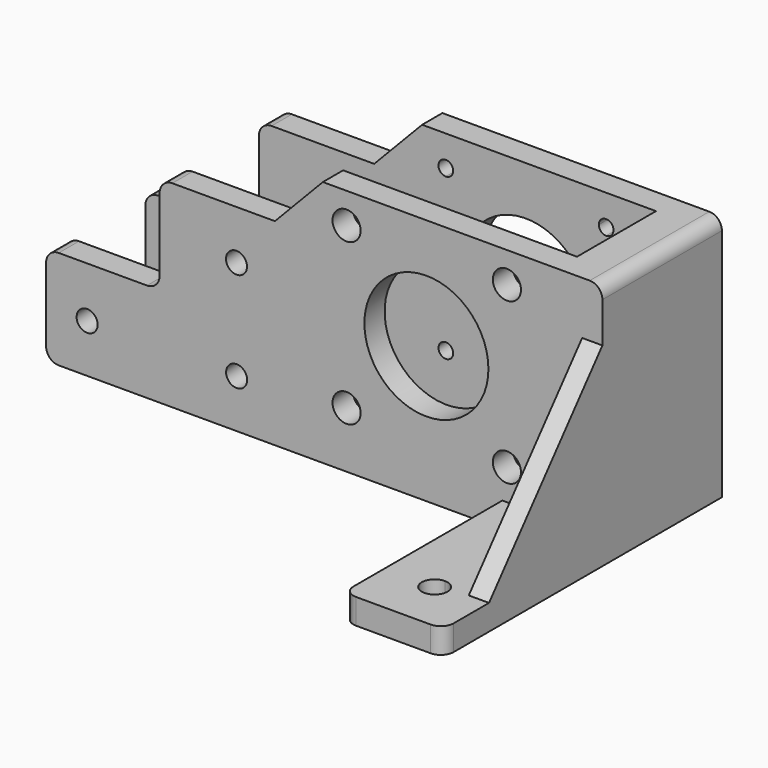
from build123d import *

# Parameters (mm, degrees)
F0_R      = 2.1098755339
F0_R_2    = 12.4421900961
F1_DEPTH  = 5.08
F2_W      = 9.1656111181
F2_H      = 49.6172681451
F3_DEPTH  = 9.906
F6_W      = 20.066
F6_H      = 5.08
F7_DEPTH  = 39.878
F8_R      = 2.8214274278
F9_DEPTH  = 20.066
F10_R     = 2.54
F12_DEPTH = 4.064
F14_DEPTH = 25.4
F15_R     = 2.54


with BuildPart() as f1:
    # F0 (on Front) → F1 (new body)
    with BuildSketch(Plane.XZ):
        Polygon((-13.3598004468, 10.1419929415), (-36.4883057773, 10.1419929415), (-36.4883057773, -9.5737483352), (-59.2704489827, -9.5737483352), (-59.2704489827, -29.4367726892), (52.3412488401, -29.4367726892), (52.3412488401, 20.1804954559), (-3.7403083406, 20.1804954559), align=None)
        with Locations((-51.0335490108, -19.7275634855)):
            Circle(F0_R, mode=Mode.SUBTRACT)
        with Locations((-21.0455833003, -19.7240766138)):
            Circle(F0_R, mode=Mode.SUBTRACT)
        with Locations((-21.0662493482, 0.2928022295)):
            Circle(F0_R, mode=Mode.SUBTRACT)
        with BuildLine():
            ThreePointArc((1.0160000529, 12.5799188824), (-0.0284943115, 15.1015513428), (2.4931381489, 14.0570569783))
            Line((2.4931381489, 14.0570569783), (31.7042982639, 14.0570569783))
            ThreePointArc((31.7042982639, 14.0570569783), (33.1814363599, 15.5341950743), (34.6585744559, 14.0570569783))
            ThreePointArc((34.6585744559, 14.0570569783), (34.2259307243, 13.0125626139), (33.1814363599, 12.5799188824))
            Line((33.1814363599, 12.5799188824), (33.1814363599, -16.6852875115))
            ThreePointArc((33.1814363599, -16.6852875115), (34.2259307243, -17.117931243), (34.6585744559, -18.1624256074))
            ThreePointArc((34.6585744559, -18.1624256074), (33.1814363599, -19.6395637034), (31.7042982639, -18.1624256074))
            Line((31.7042982639, -18.1624256074), (2.4931381489, -18.1624256074))
            ThreePointArc((2.4931381489, -18.1624256074), (-0.0284943115, -19.2069199719), (1.0160000529, -16.6852875115))
            Line((1.0160000529, -16.6852875115), (1.0160000529, 12.5799188824))
        make_face(mode=Mode.SUBTRACT)
        with BuildLine():
            Line((31.7042982639, 14.0570569783), (2.4931381489, 14.0570569783))
            ThreePointArc((2.4931381489, 14.0570569783), (2.0604944173, 13.0125626139), (1.0160000529, 12.5799188824))
            Line((1.0160000529, 12.5799188824), (1.0160000529, -16.6852875115))
            ThreePointArc((1.0160000529, -16.6852875115), (2.0604944173, -17.117931243), (2.4931381489, -18.1624256074))
            Line((2.4931381489, -18.1624256074), (31.7042982639, -18.1624256074))
            ThreePointArc((31.7042982639, -18.1624256074), (32.1369419955, -17.117931243), (33.1814363599, -16.6852875115))
            Line((33.1814363599, -16.6852875115), (33.1814363599, 12.5799188824))
            ThreePointArc((33.1814363599, 12.5799188824), (32.1369419955, 13.0125626139), (31.7042982639, 14.0570569783))
        make_face()
        with Locations((17.0313362032, -2.0420345245)):
            Circle(F0_R_2, mode=Mode.SUBTRACT)
    extrude(amount=F1_DEPTH)

    # F2 (on face) → F3 (join)
    with BuildSketch(Plane.XZ.offset(5.08)):
        with Locations((47.7584432811, -4.6281386167)):
            Rectangle(F2_W, F2_H)
    extrude(amount=F3_DEPTH)

    # F5: F1 across plane


with BuildPart() as f1_1:
    add(f1.part)
    add(f1.part.mirror(Plane(origin=(47.7584432811, -14.986, -4.6281386167), x_dir=(1, 0, 0), z_dir=(0, -1, 0))))

    # F6 (on face) → F7 (join)
    with BuildSketch(Plane.XZ.offset(29.972)):
        with Locations((42.3082488401, -26.8967726892)):
            Rectangle(F6_W, F6_H)
    extrude(amount=F7_DEPTH)

    # F8 (on face) → F9 (cut)
    with BuildSketch(Plane.XZ.offset(29.972)):
        with Locations((1.0160000529, 14.0570569783)):
            Circle(F8_R)
        with Locations((1.0160000529, -18.1624256074)):
            Circle(F8_R)
        with Locations((33.1814363599, -18.1624256074)):
            Circle(F8_R)
        with Locations((33.1814363599, 14.0570569783)):
            Circle(F8_R)
    extrude(amount=-F9_DEPTH, mode=Mode.SUBTRACT)

    # F10
    f10_edges = [f1_1.edges().sort_by_distance(p)[0] for p in [
        (-59.270449, -2.54, -9.573748),
        (-59.270449, -27.432, -9.573748),
        (-36.488306, -2.54, -9.573748),
        (-36.488306, -2.54, 10.141993),
        (-36.488306, -27.432, 10.141993),
        (-36.488306, -27.432, -9.573748),
        (-59.270449, -2.54, -29.436773),
        (-59.270449, -27.432, -29.436773),
        (32.275249, -69.85, -26.896773),
        (52.341249, -69.85, -26.896773),
    ]]
    fillet(f10_edges, radius=F10_R)

    # F11 (on face) → F12 (join)
    with BuildSketch(Plane.YZ.offset(52.3412488401)):
        Polygon((-29.972, -2.0881386167), (-48.641, -24.3567726892), (-29.972, -24.3567726892), align=None)
        Polygon((-58.4051497281, -24.3567726892), (-48.641, -24.3567726892), (-29.972, -2.0881386167), (-29.972, 9.5586703888), align=None)
    extrude(amount=-F12_DEPTH)

    # F13 (on face) → F14 (cut)
    with BuildSketch(Plane.XY.offset(-24.3567726892)):
        with BuildLine():
            ThreePointArc((42.3082488401, -56.9210011754), (39.7297515588, -59.4994984567), (42.3082488401, -62.077995738))
            Line((42.3082488401, -62.077995738), (42.3082488401, -56.9210011754))
        make_face()
        with BuildLine():
            ThreePointArc((42.3082488401, -37.8019768987), (39.7297515588, -40.38047418), (42.3082488401, -42.9589714613))
            Line((42.3082488401, -42.9589714613), (42.3082488401, -37.8019768987))
        make_face()
        with BuildLine():
            Line((42.3082488401, -37.8019768987), (42.3082488401, -42.9589714613))
            ThreePointArc((42.3082488401, -42.9589714613), (44.131521753, -42.2037470929), (44.8867461214, -40.38047418))
            ThreePointArc((44.8867461214, -40.38047418), (44.131521753, -38.5572012671), (42.3082488401, -37.8019768987))
        make_face()
        with BuildLine():
            Line((42.3082488401, -56.9210011754), (42.3082488401, -62.077995738))
            ThreePointArc((42.3082488401, -62.077995738), (44.131521753, -61.3227713696), (44.8867461214, -59.4994984567))
            ThreePointArc((44.8867461214, -59.4994984567), (44.131521753, -57.6762255438), (42.3082488401, -56.9210011754))
        make_face()
    extrude(amount=-F14_DEPTH, mode=Mode.SUBTRACT)

    # F15
    f15_edges = [f1_1.edges().sort_by_distance(p)[0] for p in [
        (52.341249, -14.986, 20.180495),
    ]]
    fillet(f15_edges, radius=F15_R)


solid = f1_1.part
